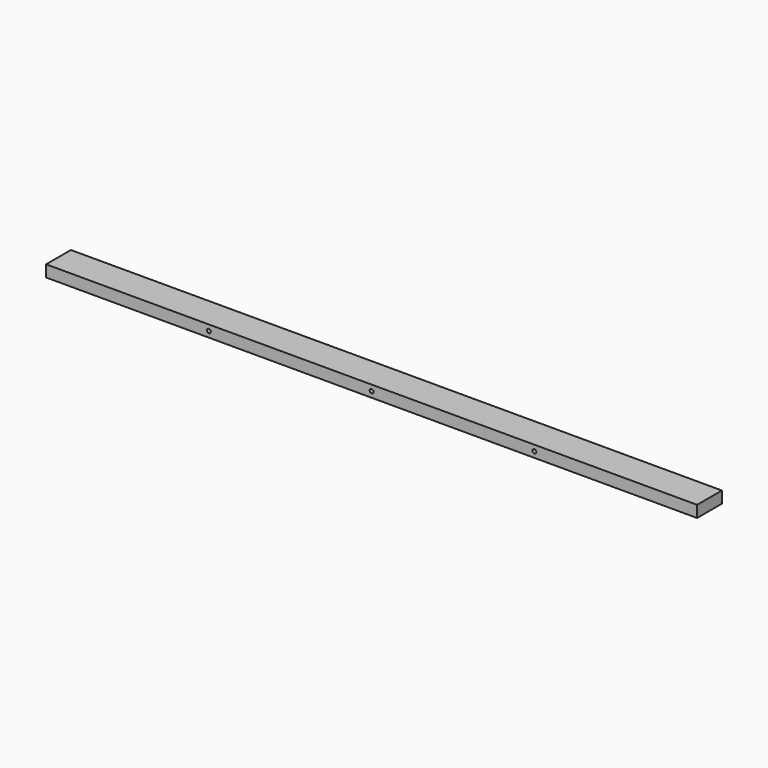
from build123d import *

# Parameters (mm, degrees)
F0_W     = 1066.8
F0_H     = 50.8
F1_DEPTH = 19.05
F2_R     = 3.175
F3_DEPTH = 50.801
F4_R     = 3.175
F5_DEPTH = 50.801


with BuildPart() as f1:
    # F0 (on Top) → F1 (new body)
    with BuildSketch(Plane.XY):
        Rectangle(F0_W, F0_H)
    extrude(amount=F1_DEPTH)

    # F2 (on face) → F3 (cut, through all)
    with BuildSketch(Plane(origin=(0, 25.4, 0), x_dir=(-1, 0, 0), z_dir=(0, 1, 0))):
        with Locations((0, 9.525)):
            Circle(F2_R)
    extrude(amount=-F3_DEPTH, mode=Mode.SUBTRACT)

    # F4 (on face) → F5 (cut, through all)
    with BuildSketch(Plane.XZ.offset(25.4)):
        with Locations((-266.7, 9.525)):
            Circle(F4_R)
        with Locations((266.7, 9.525)):
            Circle(F4_R)
    extrude(amount=-F5_DEPTH, mode=Mode.SUBTRACT)


solid = f1.part
